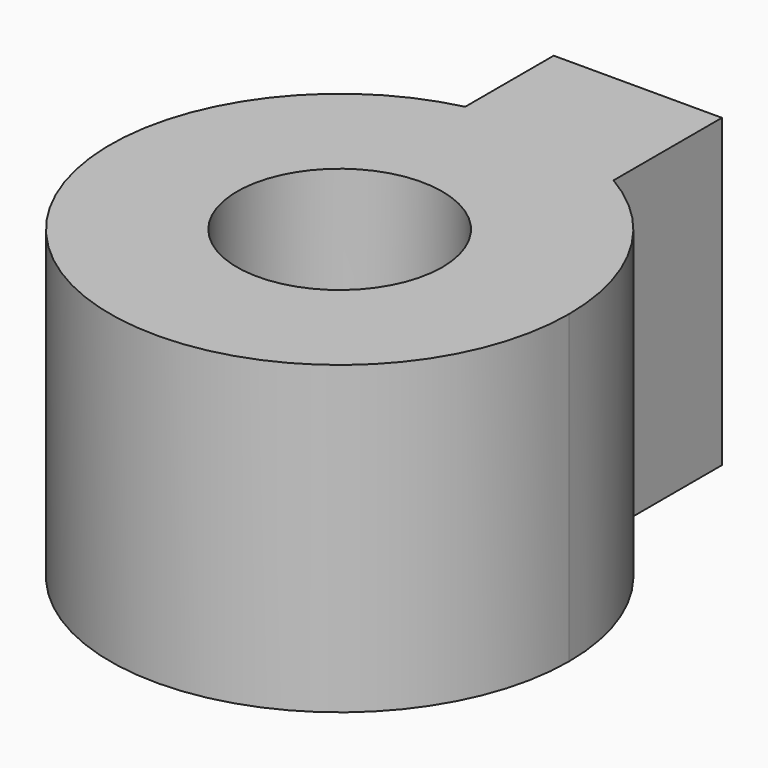
from build123d import *

# Parameters (mm, degrees)
F0_R     = 8.522337
F1_DEPTH = 25.4


with BuildPart() as f1:
    # F0 (on Top) → F1 (new body)
    with BuildSketch(Plane.XY):
        with BuildLine():
            ThreePointArc((-4.399654, 18.534982), (-11.812898, -14.945165), (19.05, 0))
            ThreePointArc((19.05, 0), (16.510869, 9.5023), (9.570346, 16.47152))
            ThreePointArc((9.570346, 16.47152), (2.78361, 18.84553), (-4.399654, 18.534982))
        make_face()
        Circle(F0_R, mode=Mode.SUBTRACT)
        with BuildLine():
            ThreePointArc((-4.399654, 18.534982), (2.78361, 18.84553), (9.570346, 16.47152))
            Line((9.570346, 16.47152), (9.570346, 27.72403))
            Line((9.570346, 27.72403), (-4.399654, 27.72403))
            Line((-4.399654, 27.72403), (-4.399654, 18.534982))
        make_face()
    extrude(amount=F1_DEPTH)


solid = f1.part
